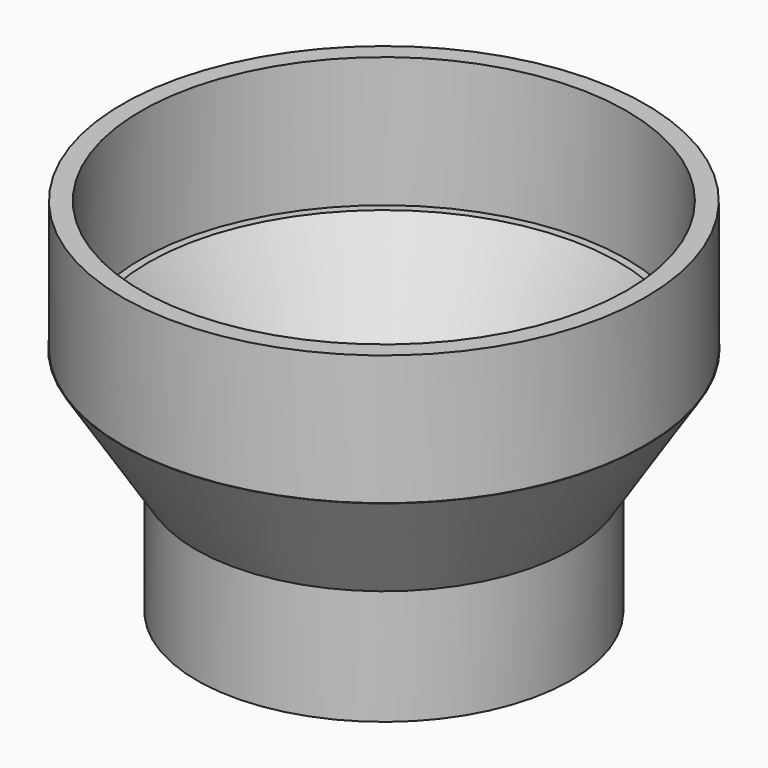
from build123d import *

# Parameters (mm, degrees)
F1_R     = 63.754
F2_DEPTH = 39.37
F0_R     = 57.404
F3_DEPTH = 39.37
F5_R     = 89.154
F5_R_2   = 82.804
F6_DEPTH = 44.45


with BuildPart() as f2:
    # F1 (on Top) → F2 (new body)
    with BuildSketch(Plane.XY):
        Circle(F1_R)
    extrude(amount=-F2_DEPTH)

    # F0 (on Top) → F3 (cut)
    with BuildSketch(Plane.XY):
        Circle(F0_R)
    extrude(amount=-F3_DEPTH, mode=Mode.SUBTRACT)


with BuildPart() as f6:
    # F5 (on offset) → F6 (new body)
    with BuildSketch(Plane.XY.offset(39.37)):
        Circle(F5_R)
        Circle(F5_R_2, mode=Mode.SUBTRACT)
    extrude(amount=F6_DEPTH)


with BuildPart() as f8:
    # F7 (on Right) → F8 (revolve)
    with BuildSketch(Plane.YZ):
        Polygon((-80.207095, 39.269883), (-89.380011, 39.493617), (-64.098559, 0), (-55.149369, 0), align=None)
    revolve(axis=Axis((0, 0, 19.411214), (0, 0, -1)))


solid = Compound([f2.part, f6.part, f8.part])
